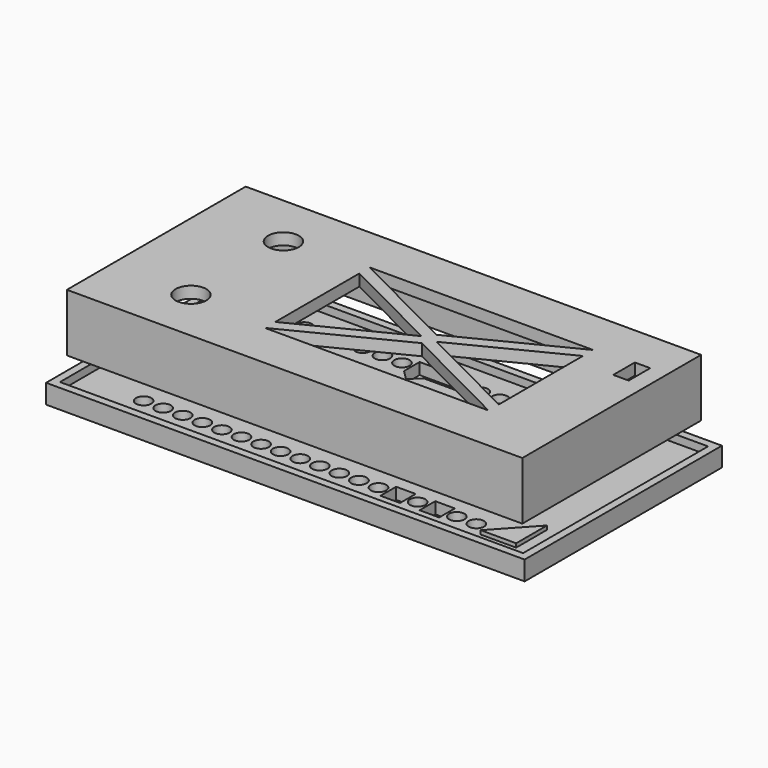
from build123d import *

# Parameters (mm, degrees)
F1_W      = 59.1
F1_H      = 29
F2_DEPTH  = 1.5
F3_W      = 59.1
F3_H      = 29
F3_W_2    = 56.7
F3_H_2    = 26.6
F4_DEPTH  = 6
F6_DEPTH  = 5
F7_W      = 8.5
F7_H      = 3.7
F8_DEPTH  = 1.2
F9_R      = 2
F10_DEPTH = 1.5
F11_W     = 2
F11_H     = 3.5
F12_DEPTH = 1.5
F14_W     = 62.1
F14_H     = 32
F15_DEPTH = 1.5
F16_W     = 62.1
F16_H     = 32
F16_W_2   = 60.1
F16_H_2   = 30
F17_DEPTH = 1
F18_R     = 1
F19_DEPTH = 1.5
F20_W     = 3
F20_H     = 4.5
F21_DEPTH = 2
F23_DEPTH = 0.5
F24_W     = 2.54
F24_H     = 2.54
F25_DEPTH = 1.5
F26_W     = 1.5
F26_H     = 7
F27_DEPTH = 1.5


with BuildPart() as f2:
    # F1 (on Top) → F2 (new body)
    with BuildSketch(Plane.XY):
        with Locations((28.05, 13)):
            Rectangle(F1_W, F1_H)
    extrude(amount=F2_DEPTH)

    # F3 (on face) → F4 (join)
    with BuildSketch(Plane.XY):
        with Locations((28.05, 13)):
            Rectangle(F3_W, F3_H)
        with Locations((28.05, 13)):
            Rectangle(F3_W_2, F3_H_2, mode=Mode.SUBTRACT)
    extrude(amount=-F4_DEPTH)

    # F5 (on face) → F6 (join)
    with BuildSketch(Plane(origin=(0, 0, 0), x_dir=(1, 0, 0), z_dir=(0, 0, -1))):
        Polygon((56.4, -5.278773), (56.4, 0.3), (51.267529, 0.3), align=None)
    extrude(amount=F6_DEPTH)

    # F7 (on face) → F8 (cut, through all)
    with BuildSketch(Plane.YZ.offset(-0.3)):
        with Locations((5.35, -1.85)):
            Rectangle(F7_W, F7_H)
        with Locations((20.65, -1.85)):
            Rectangle(F7_W, F7_H)
    extrude(amount=-F8_DEPTH, mode=Mode.SUBTRACT)

    # F9 (on face) → F10 (cut, through all)
    with BuildSketch(Plane.XY):
        with Locations((9, 5.5)):
            Circle(F9_R)
        with Locations((9, 20.5)):
            Circle(F9_R)
    extrude(amount=F10_DEPTH, mode=Mode.SUBTRACT)

    # F11 (on face) → F12 (cut, through all)
    with BuildSketch(Plane.XY):
        Polygon((33.9, 11.824629), (19.4, 4.5), (48.4, 4.5), align=None)
        Polygon((19.4, 19.819482), (19.4, 6.180518), (32.9, 13), align=None)
        Polygon((48.4, 21.5), (19.4, 21.5), (33.9, 14.175371), align=None)
        Polygon((34.9, 13), (48.4, 6.180518), (48.4, 19.819482), align=None)
        with Locations((54.4, 20.25)):
            Rectangle(F11_W, F11_H)
    extrude(amount=F12_DEPTH, mode=Mode.SUBTRACT)

    # F20 (on face) → F21 (join)
    with BuildSketch(Plane.XY):
        with Locations((54.9, 8.95)):
            Rectangle(F20_W, F20_H)
    extrude(amount=-F21_DEPTH)


with BuildPart() as f15:
    # F14 (on offset) → F15 (new body)
    with BuildSketch(Plane.XY.offset(-10)):
        with Locations((28.05, 13)):
            Rectangle(F14_W, F14_H)
    extrude(amount=-F15_DEPTH)

    # F16 (on face) → F17 (join)
    with BuildSketch(Plane.XY.offset(-10)):
        with Locations((28.05, 13)):
            Rectangle(F16_W, F16_H)
        with Locations((28.05, 13)):
            Rectangle(F16_W_2, F16_H_2, mode=Mode.SUBTRACT)
    extrude(amount=F17_DEPTH)

    # F18 (on face) → F19 (cut, through all)
    with BuildSketch(Plane(origin=(0, 0, -11.5), x_dir=(1, 0, 0), z_dir=(0, 0, -1))):
        with Locations((6, -24.43)):
            Circle(F18_R)
        with Locations((6, -1.57)):
            Circle(F18_R)
        with Locations((8.54, -24.43)):
            Circle(F18_R)
        with Locations((8.54, -1.57)):
            Circle(F18_R)
        with Locations((11.08, -24.43)):
            Circle(F18_R)
        with Locations((11.08, -1.57)):
            Circle(F18_R)
        with Locations((13.62, -24.43)):
            Circle(F18_R)
        with Locations((13.62, -1.57)):
            Circle(F18_R)
        with Locations((16.16, -24.43)):
            Circle(F18_R)
        with Locations((16.16, -1.57)):
            Circle(F18_R)
        with Locations((18.7, -24.43)):
            Circle(F18_R)
        with Locations((18.7, -1.57)):
            Circle(F18_R)
        with Locations((21.24, -24.43)):
            Circle(F18_R)
        with Locations((21.24, -1.57)):
            Circle(F18_R)
        with Locations((23.78, -24.43)):
            Circle(F18_R)
        with Locations((23.78, -1.57)):
            Circle(F18_R)
        with Locations((26.32, -24.43)):
            Circle(F18_R)
        with Locations((26.32, -1.57)):
            Circle(F18_R)
        with Locations((28.86, -24.43)):
            Circle(F18_R)
        with Locations((28.86, -1.57)):
            Circle(F18_R)
        with Locations((31.4, -24.43)):
            Circle(F18_R)
        with Locations((31.4, -1.57)):
            Circle(F18_R)
        with Locations((33.94, -24.43)):
            Circle(F18_R)
        with Locations((33.94, -1.57)):
            Circle(F18_R)
        with Locations((36.48, -24.43)):
            Circle(F18_R)
        with Locations((36.48, -1.57)):
            Circle(F18_R)
        with Locations((39.02, -24.43)):
            Circle(F18_R)
        with Locations((39.02, -1.57)):
            Circle(F18_R)
        with Locations((41.56, -24.43)):
            Circle(F18_R)
        with Locations((41.56, -1.57)):
            Circle(F18_R)
        with Locations((44.1, -24.43)):
            Circle(F18_R)
        with Locations((44.1, -1.57)):
            Circle(F18_R)
        with Locations((46.64, -24.43)):
            Circle(F18_R)
        with Locations((46.64, -1.57)):
            Circle(F18_R)
        with Locations((49.18, -24.43)):
            Circle(F18_R)
        with Locations((49.18, -1.57)):
            Circle(F18_R)
    extrude(amount=-F19_DEPTH, mode=Mode.SUBTRACT)

    # F22 (on face) → F23 (join)
    with BuildSketch(Plane.XY.offset(-10)):
        Polygon((55.6, 5), (51, 0), (55.6, 0), align=None)
    extrude(amount=F23_DEPTH)

    # F24 (on face) → F25 (cut, through all)
    with BuildSketch(Plane.XY.offset(-10)):
        with Locations((44.1, 1.57)):
            Rectangle(F24_W, F24_H)
        with Locations((39.02, 1.57)):
            Rectangle(F24_W, F24_H)
        with Locations((28.86, 24.43)):
            Rectangle(F24_W, F24_H)
        with Locations((26.32, 24.43)):
            Rectangle(F24_W, F24_H)
        Polygon((25.05, 23.16), (25.05, 25.7), (22.51, 25.7), (22.51, 23.16), (23.78, 21.91), align=None)
    extrude(amount=-F25_DEPTH, mode=Mode.SUBTRACT)

    # F26 (on face) → F27 (cut, through all)
    with BuildSketch(Plane.XY.offset(-10)):
        with Locations((2, 13)):
            Rectangle(F26_W, F26_H)
    extrude(amount=-F27_DEPTH, mode=Mode.SUBTRACT)


solid = Compound([f2.part, f15.part])
